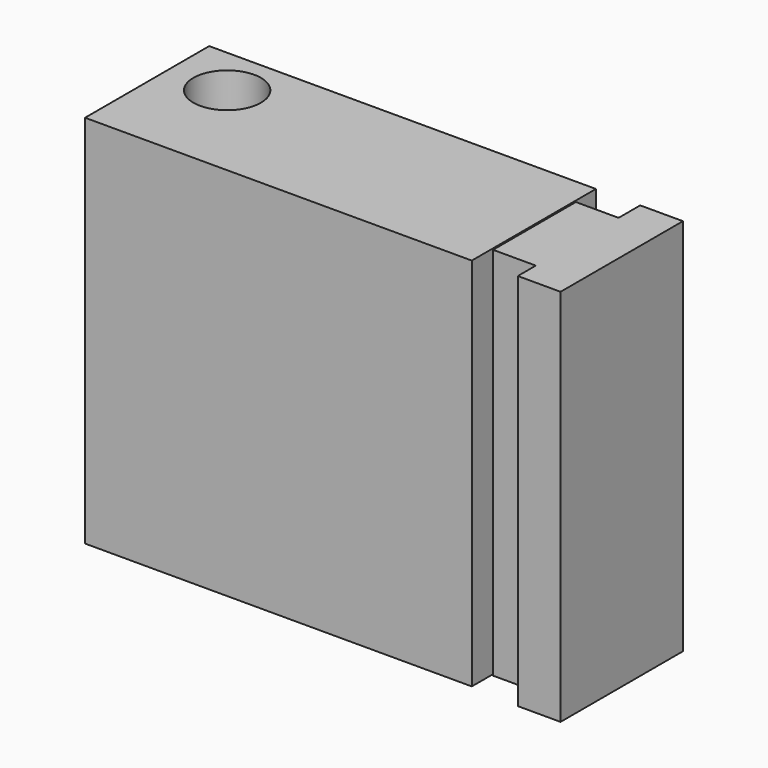
from build123d import *

# Parameters (mm, degrees)
F0_W      = 29.1494224221
F0_H      = 37.5785604119
F1_DEPTH  = 25.4
F3_W      = 52.4003743194
F3_H      = 21.0210764781
F4_DEPTH  = 50.8
F5_R      = 4.5719996095
F6_DEPTH  = 75.438
F7_W      = 5.7911989279
F7_H      = 14.0208043158
F9_DEPTH  = 50.8
F8_W      = 5.7911993936
F8_H      = 20.7264022902
F10_DEPTH = 51.308


with BuildPart() as f1:
    # F0 (on Top) → F1 (new body)
    with BuildSketch(Plane.XY):
        with Locations((-28.6207711324, -18.789280206)):
            Rectangle(F0_W, F0_H)
        with Locations((-28.6207711324, -18.789280206)):
            Rectangle(F0_W, F0_H)
    extrude(amount=F1_DEPTH)


with BuildPart() as f4:
    # F3 (on Top) → F4 (new body)
    with BuildSketch(Plane.XY):
        with Locations((-20.0193629134, 25.0117140822)):
            Rectangle(F3_W, F3_H)
    extrude(amount=-F4_DEPTH)

    # F5 (on face) → F6 (cut)
    with BuildSketch(Plane.XY):
        with Locations((-38.4047999978, 28.803601861)):
            Circle(F5_R)
    extrude(amount=-F6_DEPTH, mode=Mode.SUBTRACT)


with BuildPart() as f9:
    # F7 (on Top) → F9 (new body, through all)
    with BuildSketch(Plane.XY):
        with Locations((9.296401171, 24.841202423)):
            Rectangle(F7_W, F7_H)
    extrude(amount=-F9_DEPTH)

    # F8 (on Top) → F10 (join)
    with BuildSketch(Plane.XY):
        with Locations((15.0876003318, 25.1460014842)):
            Rectangle(F8_W, F8_H)
    extrude(amount=-F10_DEPTH)


solid = Compound([f4.part, f9.part])
